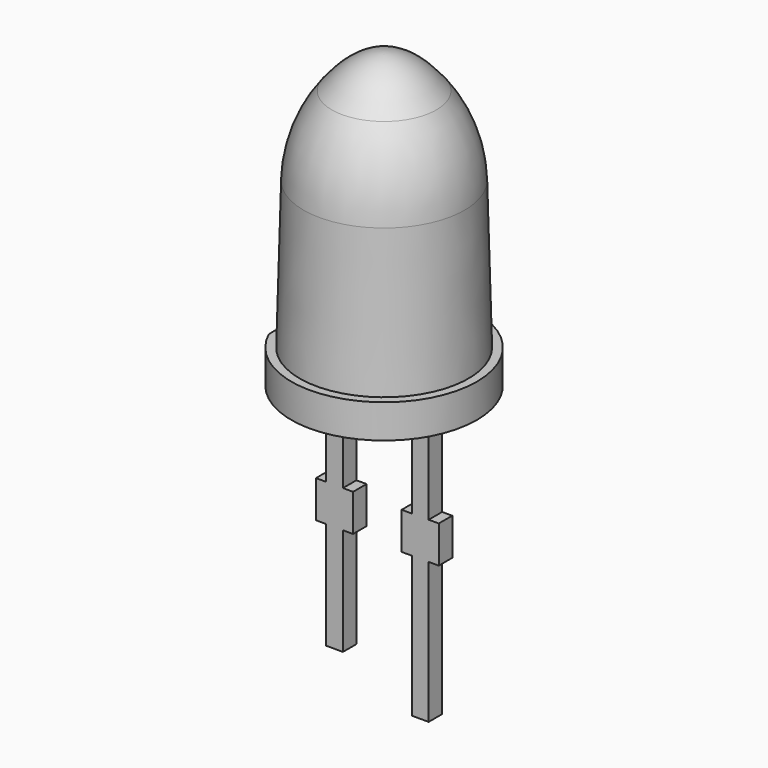
from build123d import *

# Parameters (mm, degrees)
PAD002_DEPTH            = 1
PAD003_DEPTH            = 0.25
BODY001_PLACEMENT_ANGLE = 90


with BuildPart() as part:
    # Sketch003 → Pad002 (new body)
    with BuildSketch(Plane.XY):
        with BuildLine():
            ThreePointArc((1.1456439239, -2.4999999999), (0, 2.75), (-1.1456439239, -2.4999999999))
            Line((-1.1456439239, -2.5), (1.1456439239, -2.5))
        make_face()
    extrude(amount=PAD002_DEPTH)

    # Sketch004 → Revolution001 (revolve)
    with BuildSketch(Plane.YZ):
        with BuildLine():
            add(Edge.make_bspline(
                [(-1.5494288107, 7.7), (-0.7747144053, 8.7), (0, 8.7)],
                knots=[-1.5494288107, -1.5494288107, -1.5494288107, 0, 0, 0], degree=2))
            Line((0, 8.7), (0, 1))
            Line((0, 1), (-2.5, 1))
            Line((-2.5, 1), (-2.3859606946, 5.3549853739))
            ThreePointArc((-2.3859606946, 5.3549853739), (-2.1547940918, 6.5942362206), (-1.5494288107, 7.7))
        make_face()
    revolve(axis=Axis((0, 0, 0), (0, 0, 1)))

    # Sketch005 → Pad003 (join, symmetric)
    with BuildSketch(Plane.YZ):
        Polygon((-1.52, 0), (-1.52, -2.9), (-1.82, -2.9), (-1.82, -4), (-1.52, -4), (-1.52, -7.175), (-1.02, -7.175), (-1.02, -4), (-0.72, -4), (-0.72, -2.9), (-1.02, -2.9), (-1.02, 0), align=None)
        Polygon((1.02, 0), (1.52, 0), (1.52, -2.9), (1.82, -2.9), (1.82, -4), (1.52, -4), (1.52, -8.175), (1.02, -8.175), (1.02, -4), (0.72, -4), (0.72, -2.9), (1.02, -2.9), align=None)
    extrude(amount=PAD003_DEPTH, both=True)


with BuildPart() as part_1:
    # Body001 placement: moved
    add(part.part.moved(Location((-3.81, 6.35, 4.445))).rotate(Axis((-3.81, 6.35, 4.445), (0, 0, -1)), BODY001_PLACEMENT_ANGLE))


with BuildPart() as part_2:
    # Clone001 placement: moved
    add(part_1.part.moved(Location((0, -12.7, 0))))


solid = part_2.part
